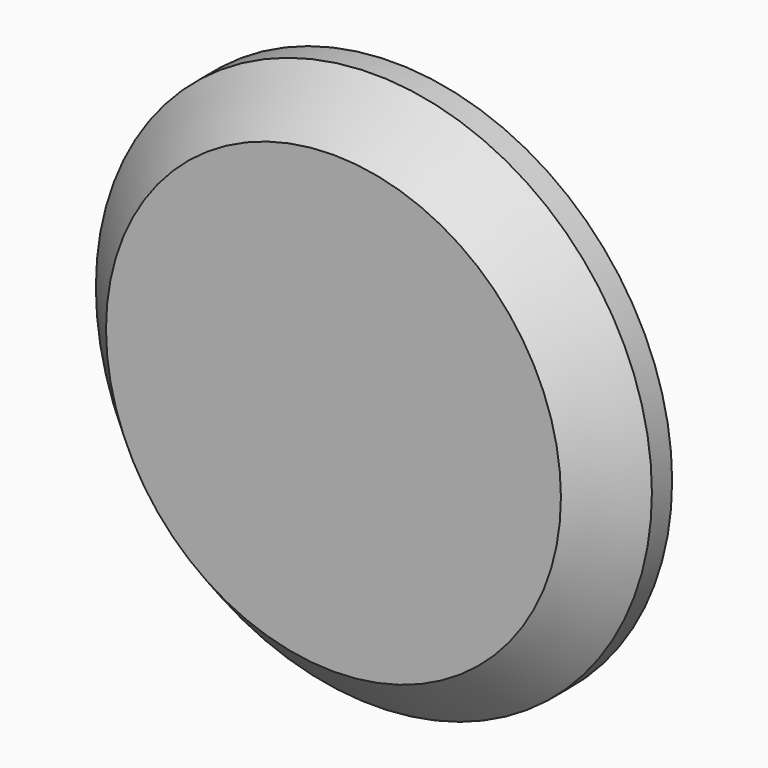
from build123d import *

# Parameters (mm, degrees)
F2_SIZE = 2


with BuildPart() as f1:
    # F0 (on Top) → F1 (revolve)
    with BuildSketch(Plane.XY):
        Polygon((-11, 3), (-11, 0), (0, 0), (0, 7.3), (-3.95, 7.3), (-3.95, 4), (-7.45, 4), (-7.45, 3), align=None)
    revolve(axis=Axis((0, 3.65, 0), (0, -1, 0)))

    # F2
    f2_edges = [f1.edges().sort_by_distance(p)[0] for p in [
        (11, 0, 0),
    ]]
    chamfer(f2_edges, length=F2_SIZE)


solid = f1.part
